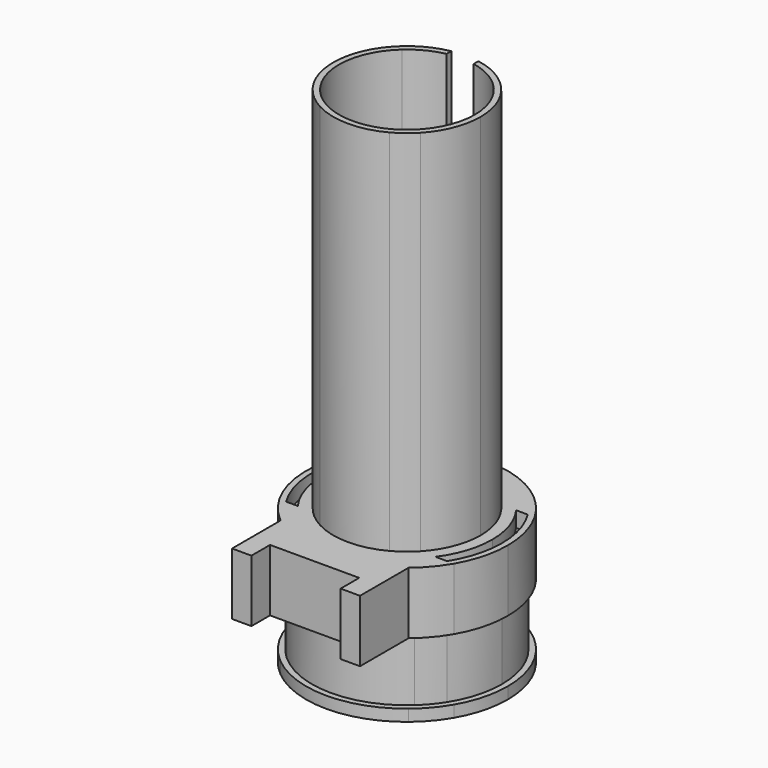
from build123d import *

# Parameters (mm, degrees)
F1_DEPTH = 130
F2_DEPTH = 35
F3_START = 31
F3_DEPTH = 4
F4_START = 19
F4_DEPTH = 16
F5_START = 3
F5_DEPTH = 16


with BuildPart() as f1:
    # F0 (on Top) → F1 (new body)
    with BuildSketch(Plane.XY):
        with BuildLine():
            Line((11.7153745139, 13), (13.8564064606, 13))
            ThreePointArc((13.8564064606, 13), (9.130289712, 16.6624670975), (3.5, 18.674849397))
            Line((3.5, 18.674849397), (3.5, 17.1464281995))
            ThreePointArc((3.5, 17.1464281995), (7.8851202973, 15.6228959511), (11.7153745139, 13))
        make_face()
        with BuildLine():
            Line((-3.5, 17.1464281995), (-3.5, 18.674849397))
            ThreePointArc((-3.5, 18.674849397), (-9.130289712, 16.6624670975), (-13.8564064606, 13))
            Line((-13.8564064606, 13), (-11.7153745139, 13))
            ThreePointArc((-11.7153745139, 13), (-7.8851202973, 15.6228959511), (-3.5, 17.1464281995))
        make_face()
        with BuildLine():
            Line((-13.8564064606, -13), (-11.7153745139, -13))
            ThreePointArc((-11.7153745139, -13), (-17.5, 0), (-11.7153745139, 13))
            Line((-11.7153745139, 13), (-13.8564064606, 13))
            ThreePointArc((-13.8564064606, 13), (-19, 0), (-13.8564064606, -13))
        make_face()
        with BuildLine():
            ThreePointArc((-13.8564064606, -13), (-11.5655499451, -15.0744172182), (-8.9686955573, -16.75))
            Line((-8.9686955573, -16.75), (-5.0682837332, -16.75))
            ThreePointArc((-5.0682837332, -16.75), (-8.5987453177, -15.2417708604), (-11.7153745139, -13))
            Line((-11.7153745139, -13), (-13.8564064606, -13))
        make_face()
        with BuildLine():
            ThreePointArc((-8.9686955573, -16.75), (0, -19), (8.9686955573, -16.75))
            Line((8.9686955573, -16.75), (5.0682837332, -16.75))
            ThreePointArc((5.0682837332, -16.75), (0, -17.5), (-5.0682837332, -16.75))
            Line((-5.0682837332, -16.75), (-8.9686955573, -16.75))
        make_face()
        with BuildLine():
            ThreePointArc((8.9686955573, -16.75), (11.5655499451, -15.0744172182), (13.8564064606, -13))
            Line((13.8564064606, -13), (11.7153745139, -13))
            ThreePointArc((11.7153745139, -13), (8.5987453177, -15.2417708604), (5.0682837332, -16.75))
            Line((5.0682837332, -16.75), (8.9686955573, -16.75))
        make_face()
        with BuildLine():
            ThreePointArc((13.8564064606, -13), (17.667367132, -6.9902888799), (19, 0))
            ThreePointArc((19, 0), (17.667367132, 6.9902888799), (13.8564064606, 13))
            Line((13.8564064606, 13), (11.7153745139, 13))
            ThreePointArc((11.7153745139, 13), (15.9885748895, 7.1144552148), (17.5, 0))
            ThreePointArc((17.5, 0), (15.9885748895, -7.1144552148), (11.7153745139, -13))
            Line((11.7153745139, -13), (13.8564064606, -13))
        make_face()
        with BuildLine():
            ThreePointArc((-13.8564064606, -13), (-11.5655499451, -15.0744172182), (-8.9686955573, -16.75))
            Line((-8.9686955573, -16.75), (-5.0682837332, -16.75))
            ThreePointArc((-5.0682837332, -16.75), (-8.5987453177, -15.2417708604), (-11.7153745139, -13))
            Line((-11.7153745139, -13), (-13.8564064606, -13))
        make_face()
        with BuildLine():
            Line((11.7153745139, 13), (13.8564064606, 13))
            ThreePointArc((13.8564064606, 13), (9.130289712, 16.6624670975), (3.5, 18.674849397))
            Line((3.5, 18.674849397), (3.5, 17.1464281995))
            ThreePointArc((3.5, 17.1464281995), (7.8851202973, 15.6228959511), (11.7153745139, 13))
        make_face()
        with BuildLine():
            ThreePointArc((8.9686955573, -16.75), (11.5655499451, -15.0744172182), (13.8564064606, -13))
            Line((13.8564064606, -13), (11.7153745139, -13))
            ThreePointArc((11.7153745139, -13), (8.5987453177, -15.2417708604), (5.0682837332, -16.75))
            Line((5.0682837332, -16.75), (8.9686955573, -16.75))
        make_face()
        with BuildLine():
            Line((-3.5, 17.1464281995), (-3.5, 18.674849397))
            ThreePointArc((-3.5, 18.674849397), (-9.130289712, 16.6624670975), (-13.8564064606, 13))
            Line((-13.8564064606, 13), (-11.7153745139, 13))
            ThreePointArc((-11.7153745139, 13), (-7.8851202973, 15.6228959511), (-3.5, 17.1464281995))
        make_face()
        with BuildLine():
            ThreePointArc((13.8564064606, -13), (17.667367132, -6.9902888799), (19, 0))
            ThreePointArc((19, 0), (17.667367132, 6.9902888799), (13.8564064606, 13))
            Line((13.8564064606, 13), (11.7153745139, 13))
            ThreePointArc((11.7153745139, 13), (15.9885748895, 7.1144552148), (17.5, 0))
            ThreePointArc((17.5, 0), (15.9885748895, -7.1144552148), (11.7153745139, -13))
            Line((11.7153745139, -13), (13.8564064606, -13))
        make_face()
        with BuildLine():
            Line((-13.8564064606, -13), (-11.7153745139, -13))
            ThreePointArc((-11.7153745139, -13), (-17.5, 0), (-11.7153745139, 13))
            Line((-11.7153745139, 13), (-13.8564064606, 13))
            ThreePointArc((-13.8564064606, 13), (-19, 0), (-13.8564064606, -13))
        make_face()
    extrude(amount=F1_DEPTH)

    # F0 (on Top) → F2 (join)
    with BuildSketch(Plane.XY):
        with BuildLine():
            Line((22.5166604984, 13), (20.7665596573, 13))
            ThreePointArc((20.7665596573, 13), (23.548149732, 6.7627394004), (24.5, 0))
            ThreePointArc((24.5, 0), (23.548149732, -6.7627394004), (20.7665596573, -13))
            Line((20.7665596573, -13), (22.5166604984, -13))
            ThreePointArc((22.5166604984, -13), (25.1140714835, -6.7292951727), (26, 0))
            ThreePointArc((26, 0), (25.1140714835, 6.7292951727), (22.5166604984, 13))
        make_face()
        with BuildLine():
            ThreePointArc((3.5, 24.248711306), (13.3734758351, 20.5280331276), (20.7665596573, 13))
            Line((20.7665596573, 13), (22.5166604984, 13))
            ThreePointArc((22.5166604984, 13), (14.4893894457, 21.5883670872), (3.5, 25.763346056))
            Line((3.5, 25.763346056), (3.5, 24.248711306))
        make_face()
        with BuildLine():
            Line((-16.5, -20.0935312974), (-16.5, -18.1107702763))
            ThreePointArc((-16.5, -18.1107702763), (-18.807687534, -15.7009837151), (-20.7665596573, -13))
            Line((-20.7665596573, -13), (-22.5166604984, -13))
            ThreePointArc((-22.5166604984, -13), (-19.8281238567, -16.818011307), (-16.5, -20.0935312974))
        make_face()
        with BuildLine():
            ThreePointArc((-20.7665596573, 13), (-13.3734758351, 20.5280331276), (-3.5, 24.248711306))
            Line((-3.5, 24.248711306), (-3.5, 25.763346056))
            ThreePointArc((-3.5, 25.763346056), (-14.4893894457, 21.5883670872), (-22.5166604984, 13))
            Line((-22.5166604984, 13), (-20.7665596573, 13))
        make_face()
        with BuildLine():
            Line((16.5, -20.0935312974), (16.5, -18.1107702763))
            ThreePointArc((16.5, -18.1107702763), (0, -24.5), (-16.5, -18.1107702763))
            Line((-16.5, -18.1107702763), (-16.5, -20.0935312974))
            ThreePointArc((-16.5, -20.0935312974), (0, -26), (16.5, -20.0935312974))
        make_face()
        with BuildLine():
            Line((20.7665596573, 13), (17.7482393493, 13))
            ThreePointArc((17.7482393493, 13), (20.9100605652, 6.8388132858), (22, 0))
            ThreePointArc((22, 0), (20.9100605652, -6.8388132858), (17.7482393493, -13))
            Line((17.7482393493, -13), (20.7665596573, -13))
            ThreePointArc((20.7665596573, -13), (23.548149732, -6.7627394004), (24.5, 0))
            ThreePointArc((24.5, 0), (23.548149732, 6.7627394004), (20.7665596573, 13))
        make_face()
        with BuildLine():
            ThreePointArc((3.5, 21.719806629), (11.4839311985, 18.7648427712), (17.7482393493, 13))
            Line((17.7482393493, 13), (20.7665596573, 13))
            ThreePointArc((20.7665596573, 13), (13.3734758351, 20.5280331276), (3.5, 24.248711306))
            Line((3.5, 24.248711306), (3.5, 21.719806629))
        make_face()
        with BuildLine():
            ThreePointArc((-17.7482393493, 13), (-11.4839311985, 18.7648427712), (-3.5, 21.719806629))
            Line((-3.5, 21.719806629), (-3.5, 24.248711306))
            ThreePointArc((-3.5, 24.248711306), (-13.3734758351, 20.5280331276), (-20.7665596573, 13))
            Line((-20.7665596573, 13), (-17.7482393493, 13))
        make_face()
        with BuildLine():
            ThreePointArc((13.8564064606, 13), (17.667367132, 6.9902888799), (19, 0))
            ThreePointArc((19, 0), (17.667367132, -6.9902888799), (13.8564064606, -13))
            Line((13.8564064606, -13), (17.7482393493, -13))
            ThreePointArc((17.7482393493, -13), (20.9100605652, -6.8388132858), (22, 0))
            ThreePointArc((22, 0), (20.9100605652, 6.8388132858), (17.7482393493, 13))
            Line((17.7482393493, 13), (13.8564064606, 13))
        make_face()
        with BuildLine():
            ThreePointArc((3.5, 18.674849397), (9.130289712, 16.6624670975), (13.8564064606, 13))
            Line((13.8564064606, 13), (17.7482393493, 13))
            ThreePointArc((17.7482393493, 13), (11.4839311985, 18.7648427712), (3.5, 21.719806629))
            Line((3.5, 21.719806629), (3.5, 18.674849397))
        make_face()
        with BuildLine():
            Line((-14.2631518256, -16.75), (-8.9686955573, -16.75))
            ThreePointArc((-8.9686955573, -16.75), (-11.5655499451, -15.0744172182), (-13.8564064606, -13))
            Line((-13.8564064606, -13), (-17.7482393493, -13))
            ThreePointArc((-17.7482393493, -13), (-16.1151455544, -14.9767180571), (-14.2631518256, -16.75))
        make_face()
        with BuildLine():
            Line((14.2631518256, -16.75), (8.9686955573, -16.75))
            ThreePointArc((8.9686955573, -16.75), (0, -19), (-8.9686955573, -16.75))
            Line((-8.9686955573, -16.75), (-14.2631518256, -16.75))
            ThreePointArc((-14.2631518256, -16.75), (0, -22), (14.2631518256, -16.75))
        make_face()
        with BuildLine():
            Line((17.7482393493, -13), (13.8564064606, -13))
            ThreePointArc((13.8564064606, -13), (11.5655499451, -15.0744172182), (8.9686955573, -16.75))
            Line((8.9686955573, -16.75), (14.2631518256, -16.75))
            ThreePointArc((14.2631518256, -16.75), (16.1151455544, -14.9767180571), (17.7482393493, -13))
        make_face()
        with BuildLine():
            ThreePointArc((-13.8564064606, 13), (-9.130289712, 16.6624670975), (-3.5, 18.674849397))
            Line((-3.5, 18.674849397), (-3.5, 21.719806629))
            ThreePointArc((-3.5, 21.719806629), (-11.4839311985, 18.7648427712), (-17.7482393493, 13))
            Line((-17.7482393493, 13), (-13.8564064606, 13))
        make_face()
        with BuildLine():
            Line((16.5, -16.75), (14.2631518256, -16.75))
            ThreePointArc((14.2631518256, -16.75), (0, -22), (-14.2631518256, -16.75))
            Line((-14.2631518256, -16.75), (-16.5, -16.75))
            Line((-16.5, -16.75), (-16.5, -18.1107702763))
            ThreePointArc((-16.5, -18.1107702763), (0, -24.5), (16.5, -18.1107702763))
            Line((16.5, -18.1107702763), (16.5, -16.75))
        make_face()
        with BuildLine():
            Line((22.5166604984, -13), (20.7665596573, -13))
            ThreePointArc((20.7665596573, -13), (18.807687534, -15.7009837151), (16.5, -18.1107702763))
            Line((16.5, -18.1107702763), (16.5, -20.0935312974))
            ThreePointArc((16.5, -20.0935312974), (19.8281238567, -16.818011307), (22.5166604984, -13))
        make_face()
        with BuildLine():
            Line((20.7665596573, -13), (17.7482393493, -13))
            ThreePointArc((17.7482393493, -13), (16.1151455544, -14.9767180571), (14.2631518256, -16.75))
            Line((14.2631518256, -16.75), (16.5, -16.75))
            Line((16.5, -16.75), (16.5, -18.1107702763))
            ThreePointArc((16.5, -18.1107702763), (18.807687534, -15.7009837151), (20.7665596573, -13))
        make_face()
        with BuildLine():
            Line((-16.5, -16.75), (-14.2631518256, -16.75))
            ThreePointArc((-14.2631518256, -16.75), (-16.1151455544, -14.9767180571), (-17.7482393493, -13))
            Line((-17.7482393493, -13), (-20.7665596573, -13))
            ThreePointArc((-20.7665596573, -13), (-18.807687534, -15.7009837151), (-16.5, -18.1107702763))
            Line((-16.5, -18.1107702763), (-16.5, -16.75))
        make_face()
        with BuildLine():
            ThreePointArc((-13.8564064606, -13), (-19, 0), (-13.8564064606, 13))
            Line((-13.8564064606, 13), (-17.7482393493, 13))
            ThreePointArc((-17.7482393493, 13), (-22, 0), (-17.7482393493, -13))
            Line((-17.7482393493, -13), (-13.8564064606, -13))
        make_face()
        with BuildLine():
            ThreePointArc((-17.7482393493, -13), (-22, 0), (-17.7482393493, 13))
            Line((-17.7482393493, 13), (-20.7665596573, 13))
            ThreePointArc((-20.7665596573, 13), (-24.5, 0), (-20.7665596573, -13))
            Line((-20.7665596573, -13), (-17.7482393493, -13))
        make_face()
        with BuildLine():
            ThreePointArc((-20.7665596573, -13), (-24.5, 0), (-20.7665596573, 13))
            Line((-20.7665596573, 13), (-22.5166604984, 13))
            ThreePointArc((-22.5166604984, 13), (-26, 0), (-22.5166604984, -13))
            Line((-22.5166604984, -13), (-20.7665596573, -13))
        make_face()
    extrude(amount=F2_DEPTH)

    # F0 (on Top) → F3 (cut)
    with BuildSketch(Plane.XY.offset(F3_START)):
        with BuildLine():
            Line((20.7665596573, 13), (17.7482393493, 13))
            ThreePointArc((17.7482393493, 13), (20.9100605652, 6.8388132858), (22, 0))
            ThreePointArc((22, 0), (20.9100605652, -6.8388132858), (17.7482393493, -13))
            Line((17.7482393493, -13), (20.7665596573, -13))
            ThreePointArc((20.7665596573, -13), (23.548149732, -6.7627394004), (24.5, 0))
            ThreePointArc((24.5, 0), (23.548149732, 6.7627394004), (20.7665596573, 13))
        make_face()
        with BuildLine():
            ThreePointArc((-17.7482393493, -13), (-22, 0), (-17.7482393493, 13))
            Line((-17.7482393493, 13), (-20.7665596573, 13))
            ThreePointArc((-20.7665596573, 13), (-24.5, 0), (-20.7665596573, -13))
            Line((-20.7665596573, -13), (-17.7482393493, -13))
        make_face()
    extrude(amount=F3_DEPTH, mode=Mode.SUBTRACT)

    # F0 (on Top) → F4 (join)
    with BuildSketch(Plane.XY.offset(F4_START)):
        with BuildLine():
            Line((16.5, -35.75), (16.5, -20.0935312974))
            ThreePointArc((16.5, -20.0935312974), (0, -26), (-16.5, -20.0935312974))
            Line((-16.5, -20.0935312974), (-16.5, -35.75))
            Line((-16.5, -35.75), (-11.5, -35.75))
            Line((-11.5, -35.75), (-11.5, -29.75))
            Line((-11.5, -29.75), (11.5, -29.75))
            Line((11.5, -29.75), (11.5, -35.75))
            Line((11.5, -35.75), (16.5, -35.75))
        make_face()
    extrude(amount=F4_DEPTH)

    # F0 (on Top) → F5 (cut)
    with BuildSketch(Plane.XY.offset(F5_START)):
        with BuildLine():
            Line((22.5166604984, 13), (20.7665596573, 13))
            ThreePointArc((20.7665596573, 13), (23.548149732, 6.7627394004), (24.5, 0))
            ThreePointArc((24.5, 0), (23.548149732, -6.7627394004), (20.7665596573, -13))
            Line((20.7665596573, -13), (22.5166604984, -13))
            ThreePointArc((22.5166604984, -13), (25.1140714835, -6.7292951727), (26, 0))
            ThreePointArc((26, 0), (25.1140714835, 6.7292951727), (22.5166604984, 13))
        make_face()
        with BuildLine():
            ThreePointArc((3.5, 24.248711306), (13.3734758351, 20.5280331276), (20.7665596573, 13))
            Line((20.7665596573, 13), (22.5166604984, 13))
            ThreePointArc((22.5166604984, 13), (14.4893894457, 21.5883670872), (3.5, 25.763346056))
            Line((3.5, 25.763346056), (3.5, 24.248711306))
        make_face()
        with BuildLine():
            Line((-16.5, -20.0935312974), (-16.5, -18.1107702763))
            ThreePointArc((-16.5, -18.1107702763), (-18.807687534, -15.7009837151), (-20.7665596573, -13))
            Line((-20.7665596573, -13), (-22.5166604984, -13))
            ThreePointArc((-22.5166604984, -13), (-19.8281238567, -16.818011307), (-16.5, -20.0935312974))
        make_face()
        with BuildLine():
            Line((16.5, -20.0935312974), (16.5, -18.1107702763))
            ThreePointArc((16.5, -18.1107702763), (0, -24.5), (-16.5, -18.1107702763))
            Line((-16.5, -18.1107702763), (-16.5, -20.0935312974))
            ThreePointArc((-16.5, -20.0935312974), (0, -26), (16.5, -20.0935312974))
        make_face()
        with BuildLine():
            Line((22.5166604984, -13), (20.7665596573, -13))
            ThreePointArc((20.7665596573, -13), (18.807687534, -15.7009837151), (16.5, -18.1107702763))
            Line((16.5, -18.1107702763), (16.5, -20.0935312974))
            ThreePointArc((16.5, -20.0935312974), (19.8281238567, -16.818011307), (22.5166604984, -13))
        make_face()
        with BuildLine():
            ThreePointArc((-20.7665596573, 13), (-13.3734758351, 20.5280331276), (-3.5, 24.248711306))
            Line((-3.5, 24.248711306), (-3.5, 25.763346056))
            ThreePointArc((-3.5, 25.763346056), (-14.4893894457, 21.5883670872), (-22.5166604984, 13))
            Line((-22.5166604984, 13), (-20.7665596573, 13))
        make_face()
        with BuildLine():
            ThreePointArc((-20.7665596573, -13), (-24.5, 0), (-20.7665596573, 13))
            Line((-20.7665596573, 13), (-22.5166604984, 13))
            ThreePointArc((-22.5166604984, 13), (-26, 0), (-22.5166604984, -13))
            Line((-22.5166604984, -13), (-20.7665596573, -13))
        make_face()
    extrude(amount=F5_DEPTH, mode=Mode.SUBTRACT)


solid = f1.part
